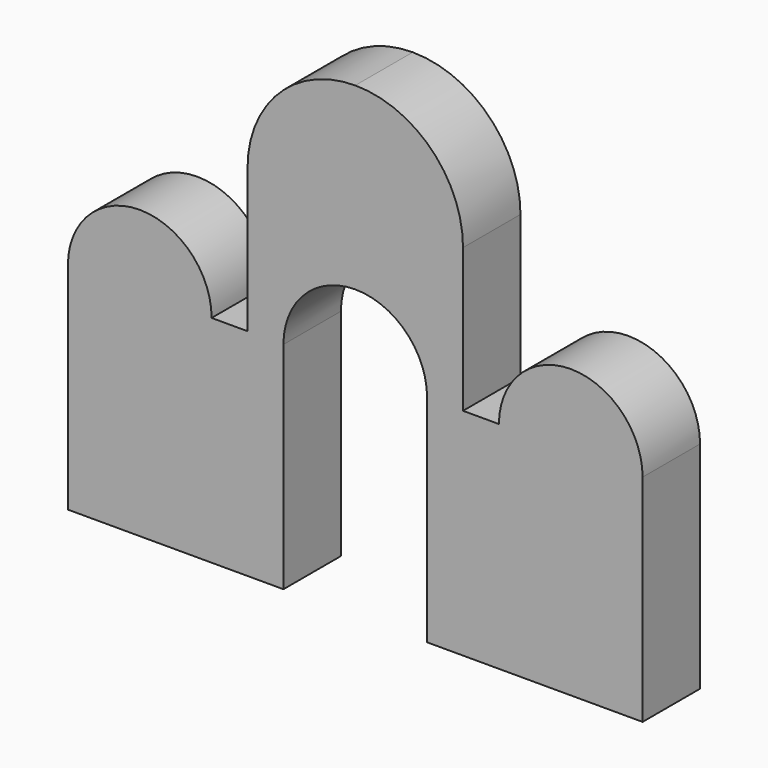
from build123d import *

# Parameters (mm, degrees)
F1_DEPTH = 10


with BuildPart() as f1:
    # F0 (on Front) → F1 (new body)
    with BuildSketch(Plane.XZ):
        with BuildLine():
            Line((0, 30), (0, 0))
            Line((0, 0), (30, 0))
            Line((30, 0), (30, 30))
            ThreePointArc((30, 30), (32.928932, 37.071068), (40, 40))
            ThreePointArc((40, 40), (47.071068, 37.071068), (50, 30))
            Line((50, 30), (50, 0))
            Line((50, 0), (80, 0))
            Line((80, 0), (80, 30))
            ThreePointArc((80, 30), (70, 40), (60, 30))
            Line((60, 30), (55, 30))
            Line((55, 30), (55, 50))
            ThreePointArc((55, 50), (50.606602, 60.606602), (40, 65))
            ThreePointArc((40, 65), (29.393398, 60.606602), (25, 50))
            Line((25, 50), (25, 30))
            Line((25, 30), (20, 30))
            ThreePointArc((20, 30), (10, 40), (0, 30))
        make_face()
    extrude(amount=F1_DEPTH)


solid = f1.part
